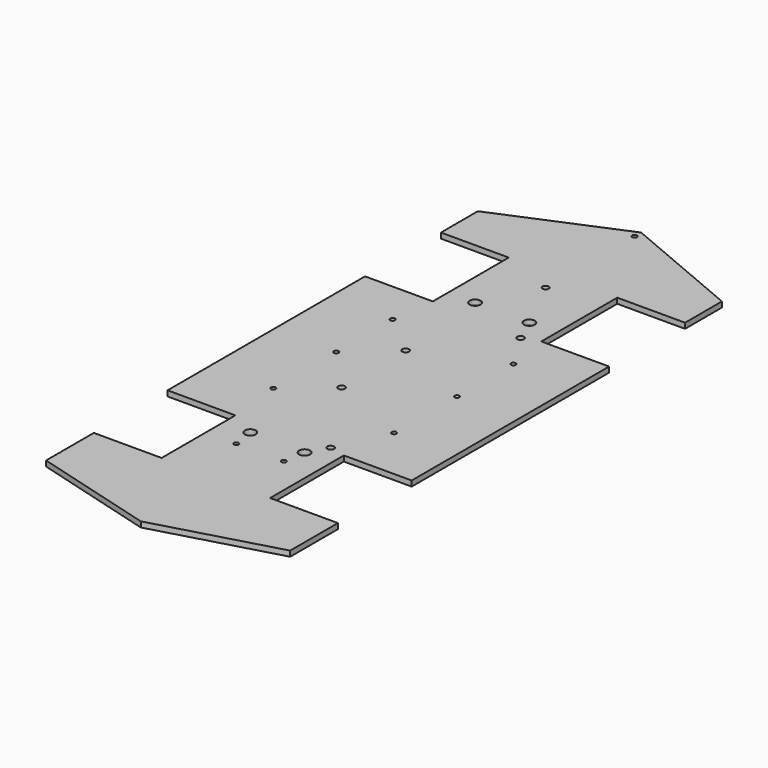
from build123d import *

# Parameters (mm, degrees)
F1_DEPTH  = 4
F3_D      = 3.5
F3_DEPTH  = 4
F5_D      = 4.5
F5_DEPTH  = 4
F7_D      = 8
F7_DEPTH  = 4
F9_D      = 8
F9_DEPTH  = 4
F11_D     = 5
F11_DEPTH = 4
F13_D     = 3.5
F13_DEPTH = 4
F15_D     = 3.5
F15_DEPTH = 4
F17_D     = 3.5
F17_DEPTH = 4
F19_D     = 3.5
F19_DEPTH = 4
F21_D     = 3.5
F21_DEPTH = 4
F23_D     = 3.5
F23_DEPTH = 4
F25_D     = 5
F25_DEPTH = 4
F27_D     = 5
F27_DEPTH = 4
F29_D     = 5
F29_DEPTH = 4
F31_D     = 8
F31_DEPTH = 4
F33_D     = 8
F33_DEPTH = 4
F35_D     = 3.5
F35_DEPTH = 4
F37_D     = 3.5
F37_DEPTH = 4


with BuildPart() as f1:
    # F0 (on Top) → F1 (new body)
    with BuildSketch(Plane.XY):
        Polygon((-90, 51.605066), (-90, -39.394934), (-90, -130.394934), (-40, -130.394934), (-40, -198.394934), (-90, -198.394934), (-90, -242.394934), (0, -267.623484), (90, -242.394934), (90, -198.394934), (40, -198.394934), (40, -130.394934), (90, -130.394934), (90, -39.394934), (90, 51.605066), (40, 51.605066), (40, 121.605066), (90, 121.605066), (90, 155.605066), (0, 193.605066), (-90, 155.605066), (-90, 121.605066), (-40, 121.605066), (-40, 51.605066), align=None)
    extrude(amount=F1_DEPTH)

    # F3
    with Locations(Plane.XY.offset(4)):
        with Locations((0, 187.605066)):
            Hole(F3_D / 2, depth=F3_DEPTH)

    # F5
    with Locations(Plane.XY.offset(4)):
        with Locations((0, 105.605066)):
            Hole(F5_D / 2, depth=F5_DEPTH)

    # F7
    with Locations(Plane.XY.offset(4)):
        with Locations((-20, 65.605066)):
            Hole(F7_D / 2, depth=F7_DEPTH)

    # F9
    with Locations(Plane.XY.offset(4)):
        with Locations((20, 65.605066)):
            Hole(F9_D / 2, depth=F9_DEPTH)

    # F11
    with Locations(Plane.XY.offset(4)):
        with Locations((28, 47.605066)):
            Hole(F11_D / 2, depth=F11_DEPTH)

    # F13
    with Locations(Plane.XY.offset(4)):
        with Locations((45, 19.605066)):
            Hole(F13_D / 2, depth=F13_DEPTH)

    # F15
    with Locations(Plane.XY.offset(4)):
        with Locations((45, -32.394934)):
            Hole(F15_D / 2, depth=F15_DEPTH)

    # F17
    with Locations(Plane.XY.offset(4)):
        with Locations((45, -90.394934)):
            Hole(F17_D / 2, depth=F17_DEPTH)

    # F19
    with Locations(Plane.XY.offset(4)):
        with Locations((-44, 19.605066)):
            Hole(F19_D / 2, depth=F19_DEPTH)

    # F21
    with Locations(Plane.XY.offset(4)):
        with Locations((-44, -32.394934)):
            Hole(F21_D / 2, depth=F21_DEPTH)

    # F23
    with Locations(Plane.XY.offset(4)):
        with Locations((-44, -90.394934)):
            Hole(F23_D / 2, depth=F23_DEPTH)

    # F25
    with Locations(Plane.XY.offset(4)):
        with Locations((-14, -5.904332)):
            Hole(F25_D / 2, depth=F25_DEPTH)

    # F27
    with Locations(Plane.XY.offset(4)):
        with Locations((-14, -65.016279)):
            Hole(F27_D / 2, depth=F27_DEPTH)

    # F29
    with Locations(Plane.XY.offset(4)):
        with Locations((28, -127.623484)):
            Hole(F29_D / 2, depth=F29_DEPTH)

    # F31
    with Locations(Plane.XY.offset(4)):
        with Locations((20, -141.623484)):
            Hole(F31_D / 2, depth=F31_DEPTH)

    # F33
    with Locations(Plane.XY.offset(4)):
        with Locations((-20, -141.623484)):
            Hole(F33_D / 2, depth=F33_DEPTH)

    # F35
    with Locations(Plane.XY.offset(4)):
        with Locations((-17.5, -157.623484)):
            Hole(F35_D / 2, depth=F35_DEPTH)

    # F37
    with Locations(Plane.XY.offset(4)):
        with Locations((17.5, -157.623484)):
            Hole(F37_D / 2, depth=F37_DEPTH)


solid = f1.part
